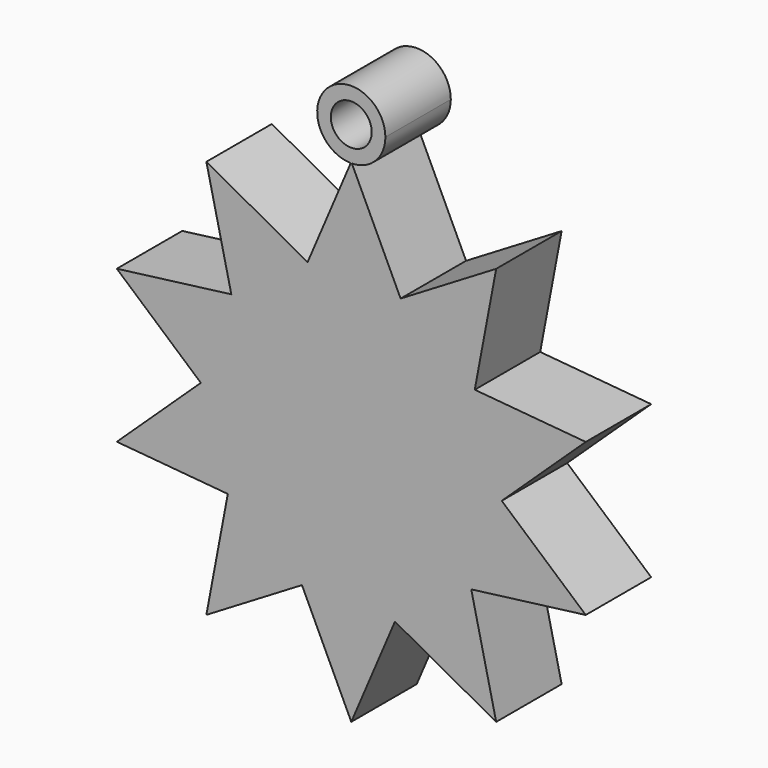
from build123d import *

# Parameters (mm, degrees)
F0_R     = 1.905
F1_DEPTH = 7.62


with BuildPart() as f1:
    # F0 (on Front) → F1 (new body)
    with BuildSketch(Plane.XZ):
        with BuildLine():
            ThreePointArc((12.6683750064, 0.8956978825), (12.6920912891, 0.4481280054), (12.7, 0))
            ThreePointArc((12.7, 0), (12.6742535258, -0.8082682494), (12.597118494, -1.6132593244))
            Line((12.597118494, -1.6132593244), (14.0147271976, -0.2774704496))
            Line((14.0147271976, -0.2774704496), (12.6683750064, 0.8956978825))
        make_face()
        with BuildLine():
            ThreePointArc((11.1395329808, 6.0992462624), (12.1849640795, 3.5800349694), (12.6683750064, 0.8956978825))
            Line((12.6683750064, 0.8956978825), (14.0147271976, -0.2774704496))
            Line((14.0147271976, -0.2774704496), (21.8401513968, 7.0962953575))
            Line((21.8401513968, 7.0962953575), (11.5012455126, 8.0131716525))
            Line((11.5012455126, 8.0131716525), (11.1395329808, 6.0992462624))
        make_face()
        with BuildLine():
            Line((14.0147271976, -0.2774704496), (12.597118494, -1.6132593244))
            ThreePointArc((12.597118494, -1.6132593244), (11.9621347738, -4.2658330549), (10.7754086772, -6.7216491905))
            Line((10.7754086772, -6.7216491905), (11.1750594361, -8.4621282708))
            Line((11.1750594361, -8.4621282708), (21.8401513968, -7.0962953575))
            Line((21.8401513968, -7.0962953575), (14.0147271976, -0.2774704496))
        make_face()
        with BuildLine():
            ThreePointArc((9.7224526655, 8.1709188081), (10.4822978426, 7.1701765626), (11.1395329808, 6.0992462624))
            Line((11.1395329808, 6.0992462624), (11.5012455126, 8.0131716525))
            Line((11.5012455126, 8.0131716525), (9.7224526655, 8.1709188081))
        make_face()
        with BuildLine():
            Line((11.1750594361, -8.4621282708), (10.7754086772, -6.7216491905))
            ThreePointArc((10.7754086772, -6.7216491905), (10.0584513163, -7.7535512584), (9.2430329028, -8.709554682))
            Line((9.2430329028, -8.709554682), (11.1750594361, -8.4621282708))
        make_face()
        with BuildLine():
            ThreePointArc((5.4270244878, 11.4820470827), (7.7535512584, 10.0584513163), (9.7224526655, 8.1709188081))
            Line((9.7224526655, 8.1709188081), (11.5012455126, 8.0131716525))
            Line((11.5012455126, 8.0131716525), (13.4979558827, 18.5783424402))
            Line((13.4979558827, 18.5783424402), (4.5946789547, 13.243054541))
            Line((4.5946789547, 13.243054541), (5.4270244878, 11.4820470827))
        make_face()
        with BuildLine():
            Line((11.1750594361, -8.4621282708), (9.2430329028, -8.709554682))
            ThreePointArc((9.2430329028, -8.709554682), (7.1701765626, -10.4822978426), (4.7666024759, -11.7715547332))
            Line((4.7666024759, -11.7715547332), (4.0668987964, -13.4145407097))
            Line((4.0668987964, -13.4145407097), (13.4979558827, -18.5783424402))
            Line((13.4979558827, -18.5783424402), (11.1750594361, -8.4621282708))
        make_face()
        with BuildLine():
            ThreePointArc((3.0628838603, 12.3251264683), (4.2658330549, 11.9621347738), (5.4270244878, 11.4820470827))
            Line((5.4270244878, 11.4820470827), (4.5946789547, 13.243054541))
            Line((4.5946789547, 13.243054541), (3.0628838603, 12.3251264683))
        make_face()
        with BuildLine():
            Line((4.0668987964, -13.4145407097), (4.7666024759, -11.7715547332))
            ThreePointArc((4.7666024759, -11.7715547332), (3.5800349694, -12.1849640795), (2.3584229018, -12.4790961779))
            Line((2.3584229018, -12.4790961779), (4.0668987964, -13.4145407097))
        make_face()
        with BuildLine():
            ThreePointArc((-2.3584229018, 12.4790961779), (0.3605453902, 12.6948811346), (3.0628838603, 12.3251264683))
            Line((3.0628838603, 12.3251264683), (4.5946789547, 13.243054541))
            Line((4.5946789547, 13.243054541), (0.0568578782, 22.8437989952))
            ThreePointArc((0.0568578782, 22.8437989952), (0.0027938397, 22.8432910784), (-0.0512710089, 22.8437038472))
            Line((-0.0512710089, 22.8437038472), (-4.0668987964, 13.4145407097))
            Line((-4.0668987964, 13.4145407097), (-2.3584229018, 12.4790961779))
        make_face()
        with BuildLine():
            Line((4.0668987964, -13.4145407097), (2.3584229018, -12.4790961779))
            ThreePointArc((2.3584229018, -12.4790961779), (-0.3605453902, -12.6948811346), (-3.0628838603, -12.3251264683))
            Line((-3.0628838603, -12.3251264683), (-4.5946789547, -13.243054541))
            Line((-4.5946789547, -13.243054541), (0, -22.9640941654))
            Line((0, -22.9640941654), (4.0668987964, -13.4145407097))
        make_face()
        with BuildLine():
            ThreePointArc((-4.7666024759, 11.7715547332), (-3.5800349694, 12.1849640795), (-2.3584229018, 12.4790961779))
            Line((-2.3584229018, 12.4790961779), (-4.0668987964, 13.4145407097))
            Line((-4.0668987964, 13.4145407097), (-4.7666024759, 11.7715547332))
        make_face()
        with BuildLine():
            ThreePointArc((-0.0512710089, 22.8437038472), (0.0027938397, 22.8432910784), (0.0568578782, 22.8437989952))
            Line((0.0568578782, 22.8437989952), (0, 22.9640941654))
            Line((0, 22.9640941654), (-0.0512710089, 22.8437038472))
        make_face()
        with BuildLine():
            Line((0, 22.9640941654), (0.0568578782, 22.8437989952))
            ThreePointArc((0.0568578782, 22.8437989952), (2.2650771249, 23.7934189274), (3.175, 26.0182898492))
            ThreePointArc((3.175, 26.0182898492), (-2.2268632139, 28.281408323), (-0.0512710089, 22.8437038472))
            Line((-0.0512710089, 22.8437038472), (0, 22.9640941654))
        make_face()
        with Locations((0, 26.0182898492)):
            Circle(F0_R, mode=Mode.SUBTRACT)
        with BuildLine():
            Line((-4.5946789547, -13.243054541), (-3.0628838603, -12.3251264683))
            ThreePointArc((-3.0628838603, -12.3251264683), (-4.2658330549, -11.9621347738), (-5.4270244878, -11.4820470827))
            Line((-5.4270244878, -11.4820470827), (-4.5946789547, -13.243054541))
        make_face()
        with BuildLine():
            ThreePointArc((-9.2430329028, 8.709554682), (-7.1701765626, 10.4822978426), (-4.7666024759, 11.7715547332))
            Line((-4.7666024759, 11.7715547332), (-4.0668987964, 13.4145407097))
            Line((-4.0668987964, 13.4145407097), (-13.4979558827, 18.5783424402))
            Line((-13.4979558827, 18.5783424402), (-11.1750594361, 8.4621282708))
            Line((-11.1750594361, 8.4621282708), (-9.2430329028, 8.709554682))
        make_face()
        with BuildLine():
            Line((-4.5946789547, -13.243054541), (-5.4270244878, -11.4820470827))
            ThreePointArc((-5.4270244878, -11.4820470827), (-7.7535512584, -10.0584513163), (-9.7224526655, -8.1709188081))
            Line((-9.7224526655, -8.1709188081), (-11.5012455126, -8.0131716525))
            Line((-11.5012455126, -8.0131716525), (-13.4979558827, -18.5783424402))
            Line((-13.4979558827, -18.5783424402), (-4.5946789547, -13.243054541))
        make_face()
        with BuildLine():
            ThreePointArc((-10.7754086772, 6.7216491905), (-10.0584513163, 7.7535512584), (-9.2430329028, 8.709554682))
            Line((-9.2430329028, 8.709554682), (-11.1750594361, 8.4621282708))
            Line((-11.1750594361, 8.4621282708), (-10.7754086772, 6.7216491905))
        make_face()
        with BuildLine():
            Line((-11.5012455126, -8.0131716525), (-9.7224526655, -8.1709188081))
            ThreePointArc((-9.7224526655, -8.1709188081), (-10.4822978426, -7.1701765626), (-11.1395329808, -6.0992462624))
            Line((-11.1395329808, -6.0992462624), (-11.5012455126, -8.0131716525))
        make_face()
        with BuildLine():
            ThreePointArc((-12.597118494, 1.6132593244), (-11.9621347738, 4.2658330549), (-10.7754086772, 6.7216491905))
            Line((-10.7754086772, 6.7216491905), (-11.1750594361, 8.4621282708))
            Line((-11.1750594361, 8.4621282708), (-21.8401513968, 7.0962953575))
            Line((-21.8401513968, 7.0962953575), (-14.0147271976, 0.2774704496))
            Line((-14.0147271976, 0.2774704496), (-12.597118494, 1.6132593244))
        make_face()
        with BuildLine():
            Line((-11.5012455126, -8.0131716525), (-11.1395329808, -6.0992462624))
            ThreePointArc((-11.1395329808, -6.0992462624), (-12.1849640795, -3.5800349694), (-12.6683750064, -0.8956978825))
            Line((-12.6683750064, -0.8956978825), (-14.0147271976, 0.2774704496))
            Line((-14.0147271976, 0.2774704496), (-21.8401513968, -7.0962953575))
            Line((-21.8401513968, -7.0962953575), (-11.5012455126, -8.0131716525))
        make_face()
        with BuildLine():
            ThreePointArc((-12.6683750064, -0.8956978825), (-12.6948811346, 0.3605453902), (-12.597118494, 1.6132593244))
            Line((-12.597118494, 1.6132593244), (-14.0147271976, 0.2774704496))
            Line((-14.0147271976, 0.2774704496), (-12.6683750064, -0.8956978825))
        make_face()
        with BuildLine():
            ThreePointArc((12.597118494, -1.6132593244), (12.6742535258, -0.8082682494), (12.7, 0))
            ThreePointArc((12.7, 0), (12.6920912891, 0.4481280054), (12.6683750064, 0.8956978825))
            ThreePointArc((12.6683750064, 0.8956978825), (12.1849640795, 3.5800349694), (11.1395329808, 6.0992462624))
            ThreePointArc((11.1395329808, 6.0992462624), (10.4822978426, 7.1701765626), (9.7224526655, 8.1709188081))
            ThreePointArc((9.7224526655, 8.1709188081), (7.7535512584, 10.0584513163), (5.4270244878, 11.4820470827))
            ThreePointArc((5.4270244878, 11.4820470827), (4.2658330549, 11.9621347738), (3.0628838603, 12.3251264683))
            ThreePointArc((3.0628838603, 12.3251264683), (0.3605453902, 12.6948811346), (-2.3584229018, 12.4790961779))
            ThreePointArc((-2.3584229018, 12.4790961779), (-3.5800349694, 12.1849640795), (-4.7666024759, 11.7715547332))
            ThreePointArc((-4.7666024759, 11.7715547332), (-7.1701765626, 10.4822978426), (-9.2430329028, 8.709554682))
            ThreePointArc((-9.2430329028, 8.709554682), (-10.0584513163, 7.7535512584), (-10.7754086772, 6.7216491905))
            ThreePointArc((-10.7754086772, 6.7216491905), (-11.9621347738, 4.2658330549), (-12.597118494, 1.6132593244))
            ThreePointArc((-12.597118494, 1.6132593244), (-12.6948811346, 0.3605453902), (-12.6683750064, -0.8956978825))
            ThreePointArc((-12.6683750064, -0.8956978825), (-12.1849640795, -3.5800349694), (-11.1395329808, -6.0992462624))
            ThreePointArc((-11.1395329808, -6.0992462624), (-10.4822978426, -7.1701765626), (-9.7224526655, -8.1709188081))
            ThreePointArc((-9.7224526655, -8.1709188081), (-7.7535512584, -10.0584513163), (-5.4270244878, -11.4820470827))
            ThreePointArc((-5.4270244878, -11.4820470827), (-4.2658330549, -11.9621347738), (-3.0628838603, -12.3251264683))
            ThreePointArc((-3.0628838603, -12.3251264683), (-0.3605453902, -12.6948811346), (2.3584229018, -12.4790961779))
            ThreePointArc((2.3584229018, -12.4790961779), (3.5800349694, -12.1849640795), (4.7666024759, -11.7715547332))
            ThreePointArc((4.7666024759, -11.7715547332), (7.1701765626, -10.4822978426), (9.2430329028, -8.709554682))
            ThreePointArc((9.2430329028, -8.709554682), (10.0584513163, -7.7535512584), (10.7754086772, -6.7216491905))
            ThreePointArc((10.7754086772, -6.7216491905), (11.9621347738, -4.2658330549), (12.597118494, -1.6132593244))
        make_face()
    extrude(amount=F1_DEPTH)


solid = f1.part
